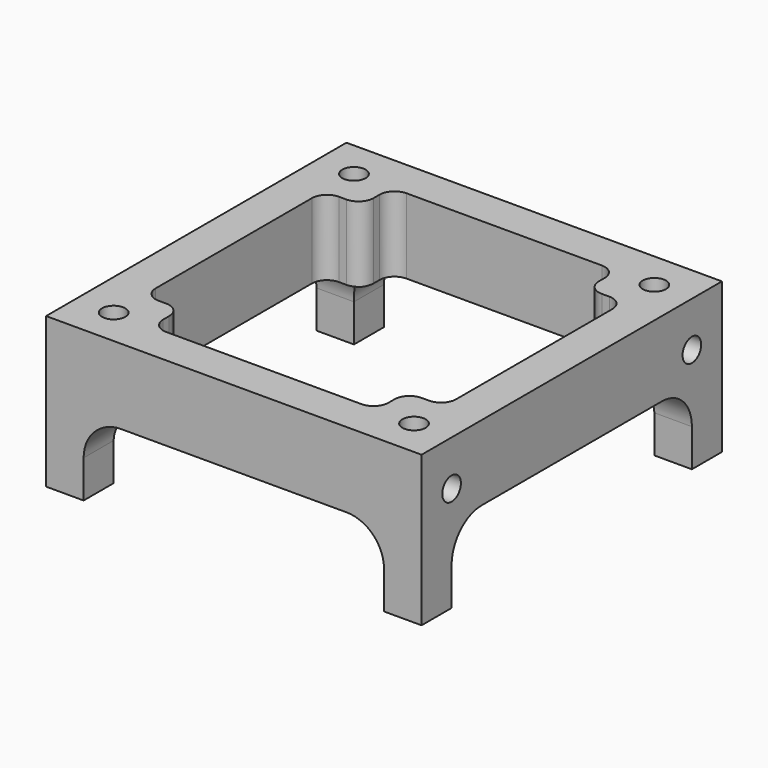
from build123d import *

# Parameters (mm, degrees)
SKETCH146_W             = 50
SKETCH146_H             = 50
PAD025_DEPTH            = 20
POCKET122_DEPTH         = 20.001
POCKET123_DEPTH         = 50.001
POCKET124_DEPTH         = 50.001
SKETCH150_R             = 1.55
POCKET125_DEPTH         = 5
SKETCH151_R             = 1.55
POCKET126_DEPTH         = 3
BODY026_PLACEMENT_ANGLE = 90


with BuildPart() as part:
    # Sketch146 → Pad025 (new body)
    with BuildSketch(Plane.XY):
        Rectangle(SKETCH146_W, SKETCH146_H)
    extrude(amount=PAD025_DEPTH)

    # Sketch147 (on Face6 of Pad025) → Pocket122 (cut, through all)
    with BuildSketch(Plane.XY.offset(20)):
        with BuildLine():
            Line((-18, 15), (-17, 15))
            ThreePointArc((-17, 15), (-15.585786, 15.585786), (-15, 17))
            Line((-15, 17), (-15, 18))
            ThreePointArc((-13, 20), (-14.414214, 19.414214), (-15, 18))
            Line((-13, 20), (13, 20))
            ThreePointArc((15, 18), (14.414214, 19.414214), (13, 20))
            Line((15, 18), (15, 17))
            ThreePointArc((15, 17), (15.585786, 15.585786), (17, 15))
            Line((17, 15), (18, 15))
            ThreePointArc((20, 13), (19.414214, 14.414214), (18, 15))
            Line((20, 13), (20, -13))
            ThreePointArc((18, -15), (19.414214, -14.414214), (20, -13))
            Line((18, -15), (17, -15))
            ThreePointArc((17, -15), (15.585786, -15.585786), (15, -17))
            Line((15, -17), (15, -18))
            ThreePointArc((13, -20), (14.414214, -19.414214), (15, -18))
            Line((13, -20), (-13, -20))
            ThreePointArc((-15, -18), (-14.414214, -19.414214), (-13, -20))
            Line((-15, -18), (-15, -17))
            ThreePointArc((-15, -17), (-15.585786, -15.585786), (-17, -15))
            Line((-17, -15), (-18, -15))
            ThreePointArc((-20, -13), (-19.414214, -14.414214), (-18, -15))
            Line((-20, -13), (-20, 13))
            ThreePointArc((-18, 15), (-19.414214, 14.414214), (-20, 13))
        make_face()
    extrude(amount=-POCKET122_DEPTH, mode=Mode.SUBTRACT)

    # Sketch148 (on Face3 of Pocket122) → Pocket123 (cut, through all)
    with BuildSketch(Plane.YZ.offset(25)):
        with BuildLine():
            Line((-15, 10), (15, 10))
            ThreePointArc((20, 5), (18.535534, 8.535534), (15, 10))
            Line((20, 5), (20, 0))
            Line((20, 0), (-20, 0))
            Line((-20, 0), (-20, 5))
            ThreePointArc((-15, 10), (-18.535534, 8.535534), (-20, 5))
        make_face()
    extrude(amount=-POCKET123_DEPTH, mode=Mode.SUBTRACT)

    # Sketch149 (on Face6 of Pocket122) → Pocket124 (cut, through all)
    with BuildSketch(Plane.XZ.offset(25)):
        with BuildLine():
            Line((-15, 10), (15, 10))
            ThreePointArc((20, 5), (18.535534, 8.535534), (15, 10))
            Line((20, 5), (20, 0))
            Line((20, 0), (-20, 0))
            Line((-20, 0), (-20, 5))
            ThreePointArc((-15, 10), (-18.535534, 8.535534), (-20, 5))
        make_face()
    extrude(amount=-POCKET124_DEPTH, mode=Mode.SUBTRACT)

    # Sketch150 → Pocket125 (cut)
    with BuildSketch(Plane.XY.offset(20)):
        with Locations((-20, 20)):
            Circle(SKETCH150_R)
        with Locations((20, 20)):
            Circle(SKETCH150_R)
        with Locations((20, -20)):
            Circle(SKETCH150_R)
        with Locations((-20, -20)):
            Circle(SKETCH150_R)
    extrude(amount=-POCKET125_DEPTH, mode=Mode.SUBTRACT)

    # Sketch151 (on Face27 of Pocket125) → Pocket126 (cut)
    with BuildSketch(Plane.XZ.offset(25)):
        with Locations((-20, 14)):
            Circle(SKETCH151_R)
        with Locations((20, 14)):
            Circle(SKETCH151_R)
    extrude(amount=-POCKET126_DEPTH, mode=Mode.SUBTRACT)


with BuildPart() as part_1:
    # Body026 placement: moved
    add(part.part.moved(Location((145, 85, 0))).rotate(Axis((145, 85, 0), (0, 0, 1)), BODY026_PLACEMENT_ANGLE))


solid = part_1.part
